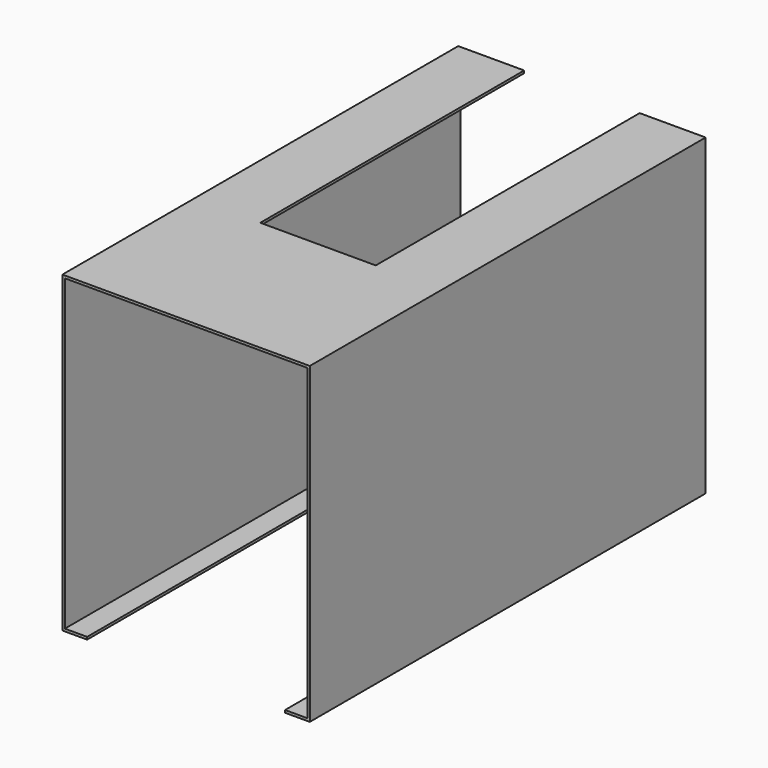
from build123d import *

# Parameters (mm, degrees)
F1_DEPTH = 300
F2_W     = 70
F2_H     = 200
F3_DEPTH = 25


with BuildPart() as f1:
    # F0 (on Front) → F1 (new body)
    with BuildSketch(Plane.XZ):
        Polygon((75, 95), (-75, 95), (-75, -95), (-60, -95), (-60, -93.5), (-73.5, -93.5), (-73.5, 93.5), (73.5, 93.5), (73.5, -93.5), (60, -93.5), (60, -95), (75, -95), align=None)
    extrude(amount=F1_DEPTH)

    # F2 (on face) → F3 (cut)
    with BuildSketch(Plane.XY.offset(95)):
        with Locations((0, -100)):
            Rectangle(F2_W, F2_H)
    extrude(amount=-F3_DEPTH, mode=Mode.SUBTRACT)


solid = f1.part
